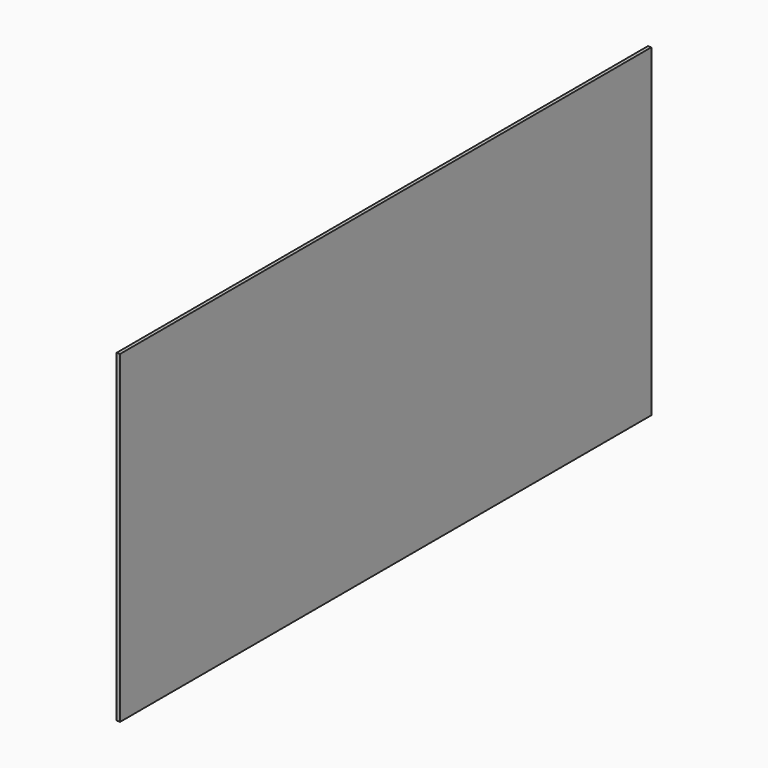
from build123d import *

# Parameters (mm, degrees)
F0_W     = 2438.4
F0_H     = 1219.2
F1_DEPTH = 12.7
F2_DEPTH = 45.72
F3_DEPTH = 15.24


with BuildPart() as f1:
    # F0 (on Right) → F1 (new body)
    with BuildSketch(Plane.YZ):
        with Locations((23.6157029867, 34.8047822451)):
            Rectangle(F0_W, F0_H)
    extrude(amount=F1_DEPTH)

    # F2 (add): a face of the model
    f2_faces = [f1.faces().sort_by_distance(p)[0] for p in [
        (6.35, 1242.8157029867, 34.8047822451),
    ]]
    extrude(f2_faces, amount=F2_DEPTH)

    # F3 (add): a face of the model
    f3_faces = [f1.faces().sort_by_distance(p)[0] for p in [
        (6.35, -1195.5842970133, 34.8047822451),
    ]]
    extrude(f3_faces, amount=F3_DEPTH)


solid = f1.part
